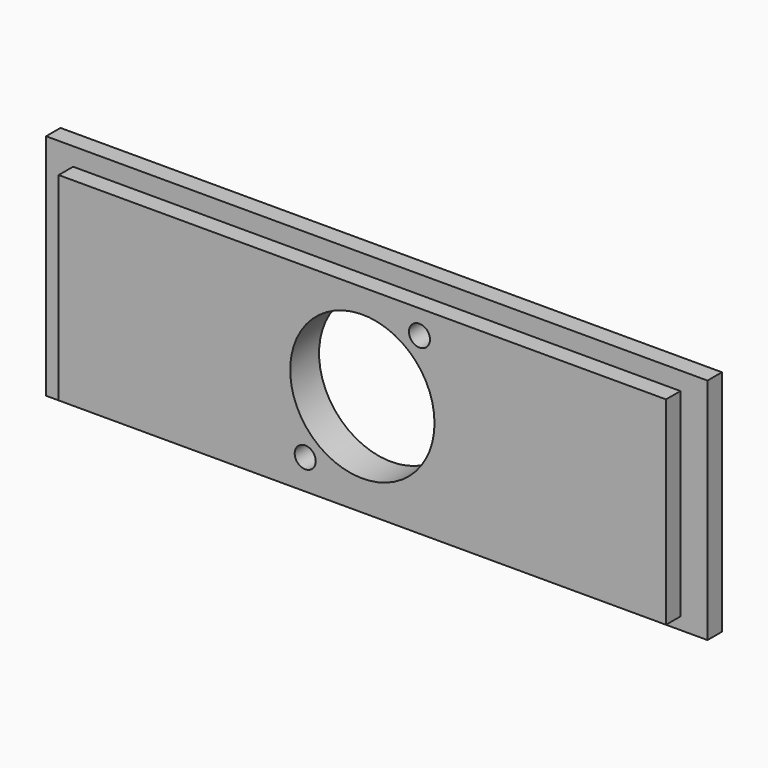
from build123d import *

# Parameters (mm, degrees)
SKETCH_W          = 55
SKETCH_H          = 38
PAD_DEPTH         = 3
SKETCH001_W       = 50.5
SKETCH001_H       = 33
PAD001_DEPTH      = 3
SKETCH003_R       = 1.75
SKETCH003_R_2     = 12
POCKET_DEPTH      = 5
POCKET_DEPTH_BACK = 5


with BuildPart() as part:
    # Sketch → Pad (new body)
    with BuildSketch(Plane.XZ):
        with Locations((27.5, 0)):
            Rectangle(SKETCH_W, SKETCH_H)
    pad = extrude(amount=PAD_DEPTH)

    # Sketch001 (on Face6 of Pad) → Pad001 (join)
    with BuildSketch(Plane.XZ.offset(3)):
        with Locations((25.25, -0.5)):
            Rectangle(SKETCH001_W, SKETCH001_H)
    pad001 = extrude(amount=PAD001_DEPTH)

    # Mirrored: Pad, Pad001 across Sketch V_Axis
    add(pad.mirror(Plane(origin=(0, 0, 0), x_dir=(0, -1, 0), z_dir=(1, 0, 0))))
    add(pad001.mirror(Plane(origin=(0, 0, 0), x_dir=(0, -1, 0), z_dir=(1, 0, 0))))

    # Sketch003 → Pocket (cut, two sides)
    with BuildSketch(Plane(origin=(0, -3, 0), x_dir=(1, 0, 0), z_dir=(0, 1, 0))) as pocket_sk:
        with Locations((9.5, -12)):
            Circle(SKETCH003_R)
        with Locations((-9.5, 12)):
            Circle(SKETCH003_R)
        Circle(SKETCH003_R_2)
    extrude(amount=POCKET_DEPTH, mode=Mode.SUBTRACT)
    extrude(pocket_sk.sketch, amount=-POCKET_DEPTH_BACK, mode=Mode.SUBTRACT)


solid = part.part
